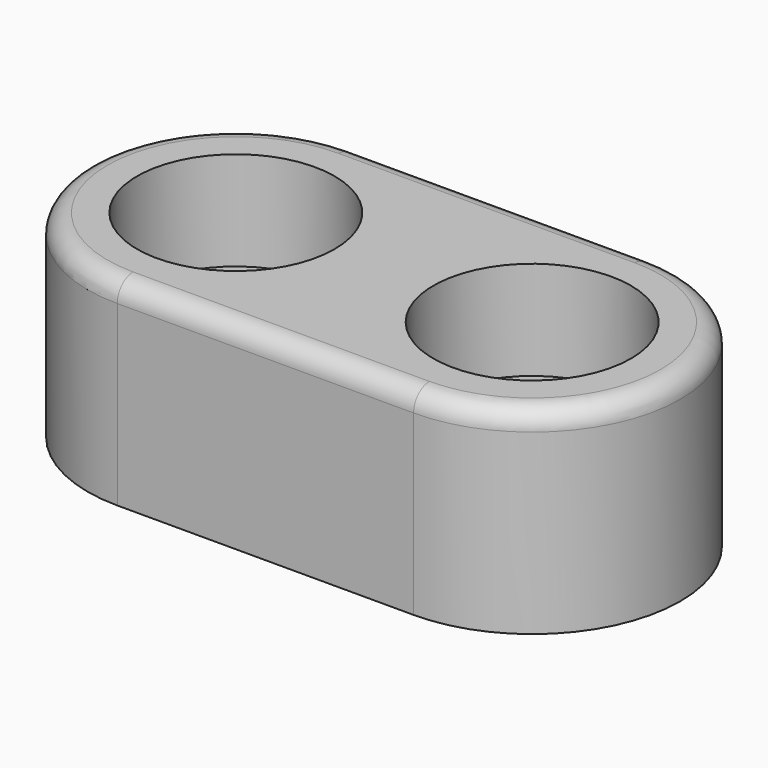
from build123d import *

# Parameters (mm, degrees)
SKETCH_R     = 2.75
PAD_DEPTH    = 10
FILLET_R     = 1
CHAMFER_SIZE = 1
SKETCH001_R  = 5
POCKET_DEPTH = 5


with BuildPart() as part:
    # Sketch → Pad (new body)
    with BuildSketch(Plane.XY):
        with BuildLine():
            ThreePointArc((0, 7.5), (-7.5, 0), (0, -7.5))
            Line((0, -7.5), (15, -7.5))
            ThreePointArc((15, -7.5), (22.5, 0), (15, 7.5))
            Line((0, 7.5), (15, 7.5))
        make_face()
        Circle(SKETCH_R, mode=Mode.SUBTRACT)
        with Locations((15, 0)):
            Circle(SKETCH_R, mode=Mode.SUBTRACT)
    extrude(amount=PAD_DEPTH)

    # Fillet
    fillet_edges = [part.edges().sort_by_distance(p)[0] for p in [
        (7.5, -7.5, 10),
    ]]
    fillet(fillet_edges, radius=FILLET_R)

    # Chamfer
    chamfer_edges = [part.edges().sort_by_distance(p)[0] for p in [
        (12.25, 0, 0),
        (-2.75, 0, 0),
    ]]
    chamfer(chamfer_edges, length=CHAMFER_SIZE)

    # Sketch001 (on Face14 of Chamfer) → Pocket (cut)
    with BuildSketch(Plane.XY.offset(10)):
        Circle(SKETCH001_R)
        with Locations((15, 0)):
            Circle(SKETCH001_R)
    extrude(amount=-POCKET_DEPTH, mode=Mode.SUBTRACT)


solid = part.part
